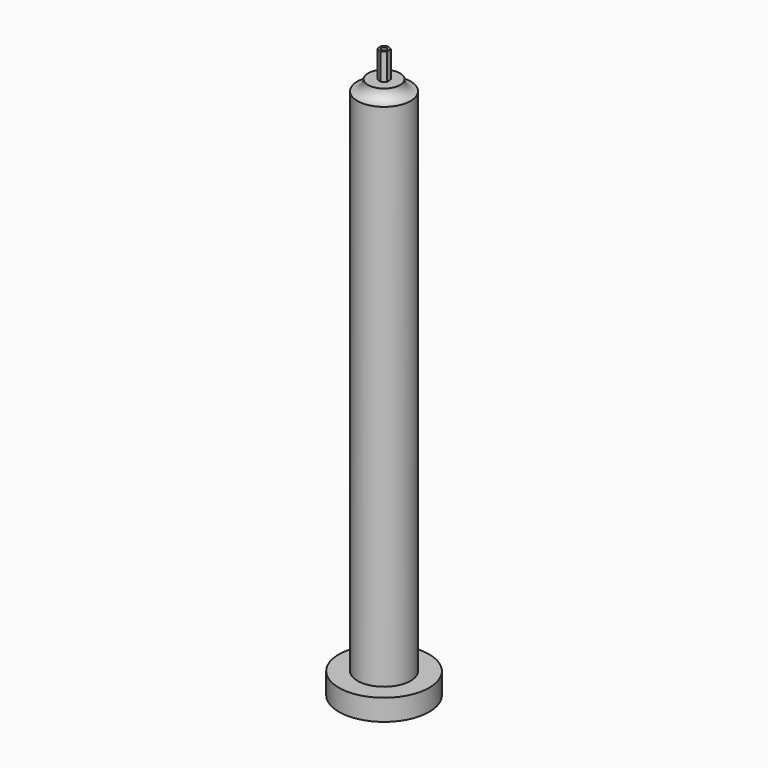
from build123d import *

# Parameters (mm, degrees)
F0_R     = 8.5
F1_DEPTH = 4
F2_R     = 5
F3_DEPTH = 100
F7_DEPTH = 5
F8_R     = 0.5
F9_DEPTH = 110.1


with BuildPart() as f1:
    # F0 (on Top) → F1 (new body)
    with BuildSketch(Plane.XY):
        Circle(F0_R)
    extrude(amount=F1_DEPTH)

    # F2 (on Top) → F3 (join)
    with BuildSketch(Plane.XY):
        Circle(F2_R)
    extrude(amount=F3_DEPTH)

    # F4 (on Right) → F5 (revolve)
    with BuildSketch(Plane.YZ):
        with BuildLine():
            Line((3, 102), (0, 102))
            Line((0, 102), (0, 100))
            Line((0, 100), (5, 100))
            ThreePointArc((5, 100), (3.585786, 100.585786), (3, 102))
        make_face()
    revolve(axis=Axis((0, 0, 101), (0, 0, -1)))

    # F6 (on face) → F7 (join)
    with BuildSketch(Plane.XY.offset(102)):
        Polygon((0.087017, -0.996207), (0.906249, -0.422744), (0.819232, 0.573463), (-0.087017, 0.996207), (-0.906249, 0.422744), (-0.819232, -0.573463), align=None)
    extrude(amount=F7_DEPTH)

    # F8 (on face) → F9 (cut)
    with BuildSketch(Plane.XY.offset(107)):
        Circle(F8_R)
    extrude(amount=-F9_DEPTH, mode=Mode.SUBTRACT)


solid = f1.part
